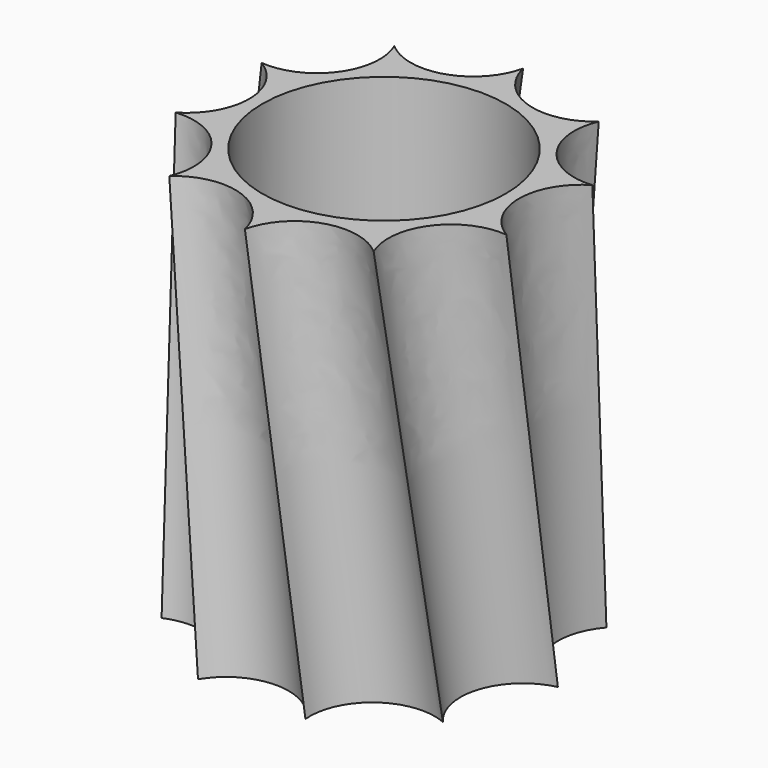
from build123d import *

# Parameters (mm, degrees)
F4_R     = 17.5
F5_DEPTH = 60.001


with BuildPart() as f3:
    # F0 (on Top) → F3 section 0
    with BuildSketch(Plane.XY):
        with BuildLine():
            ThreePointArc((-20.225425, 14.694631), (-18.444347, 5.992932), (-25, 0))
            ThreePointArc((-25, 0), (-18.444347, -5.992932), (-20.225425, -14.694631))
            ThreePointArc((-20.225425, -14.694631), (-11.399234, -15.689699), (-7.725425, -23.776413))
            ThreePointArc((-7.725425, -23.776413), (0, -19.393534), (7.725425, -23.776413))
            ThreePointArc((7.725425, -23.776413), (11.399234, -15.689699), (20.225425, -14.694631))
            ThreePointArc((20.225425, -14.694631), (18.444347, -5.992932), (25, 0))
            ThreePointArc((25, 0), (18.444347, 5.992932), (20.225425, 14.694631))
            ThreePointArc((20.225425, 14.694631), (11.399234, 15.689699), (7.725425, 23.776413))
            ThreePointArc((7.725425, 23.776413), (0, 19.393534), (-7.725425, 23.776413))
            ThreePointArc((-7.725425, 23.776413), (-11.399234, 15.689699), (-20.225425, 14.694631))
        make_face()
    # F2 (on offset) → F3 section 1
    with BuildSketch(Plane.XY.offset(60)):
        with BuildLine():
            ThreePointArc((14.694631, 20.225425), (5.992932, 18.444347), (0, 25))
            ThreePointArc((0, 25), (-5.992932, 18.444347), (-14.694631, 20.225425))
            ThreePointArc((-14.694631, 20.225425), (-15.689699, 11.399234), (-23.776413, 7.725425))
            ThreePointArc((-23.776413, 7.725425), (-19.393534, 0), (-23.776413, -7.725425))
            ThreePointArc((-23.776413, -7.725425), (-15.689699, -11.399234), (-14.694631, -20.225425))
            ThreePointArc((-14.694631, -20.225425), (-5.992932, -18.444347), (0, -25))
            ThreePointArc((0, -25), (5.992932, -18.444347), (14.694631, -20.225425))
            ThreePointArc((14.694631, -20.225425), (15.689699, -11.399234), (23.776413, -7.725425))
            ThreePointArc((23.776413, -7.725425), (19.393534, 0), (23.776413, 7.725425))
            ThreePointArc((23.776413, 7.725425), (15.689699, 11.399234), (14.694631, 20.225425))
        make_face()
    loft()

    # F4 (on face) → F5 (cut, through all)
    with BuildSketch(Plane.XY):
        Circle(F4_R)
    extrude(amount=F5_DEPTH, mode=Mode.SUBTRACT)


solid = f3.part
